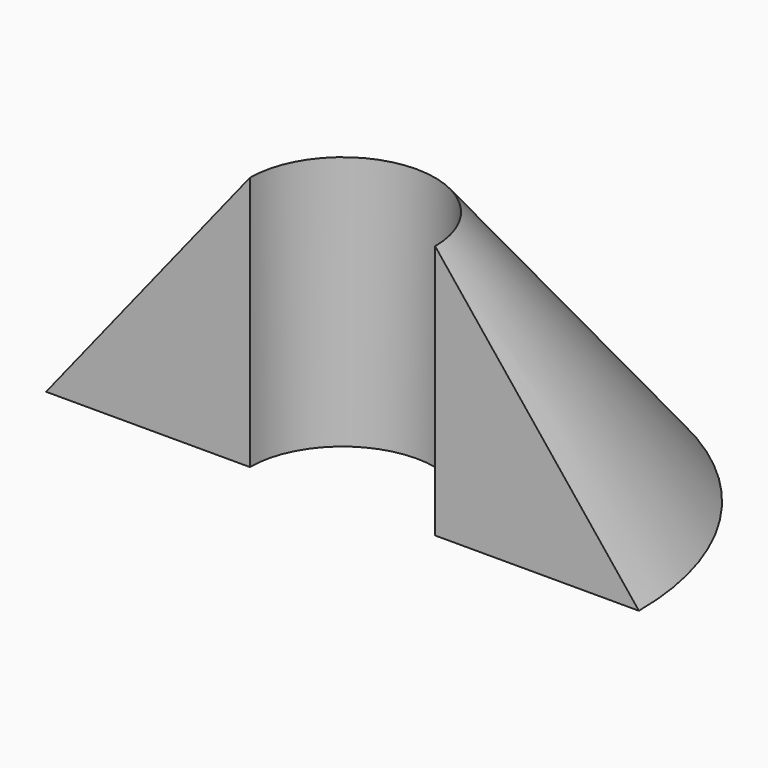
from build123d import *

# Parameters (mm, degrees)
F1_ANGLE = 180
F2_R     = 2.5
F3_DEPTH = 10.001


with BuildPart() as f1:
    # F0 (on Front) → F1 (revolve)
    with BuildSketch(Plane.XZ):
        Polygon((0, 10), (0, 0), (8, 0), align=None)
    revolve(axis=Axis((0, 0, 5), (0, 0, 1)), revolution_arc=F1_ANGLE)

    # F2 (on face) → F3 (cut, through all)
    with BuildSketch(Plane(origin=(0, 0, 0), x_dir=(1, 0, 0), z_dir=(0, 0, -1))):
        Circle(F2_R)
    extrude(amount=-F3_DEPTH, mode=Mode.SUBTRACT)


solid = f1.part
